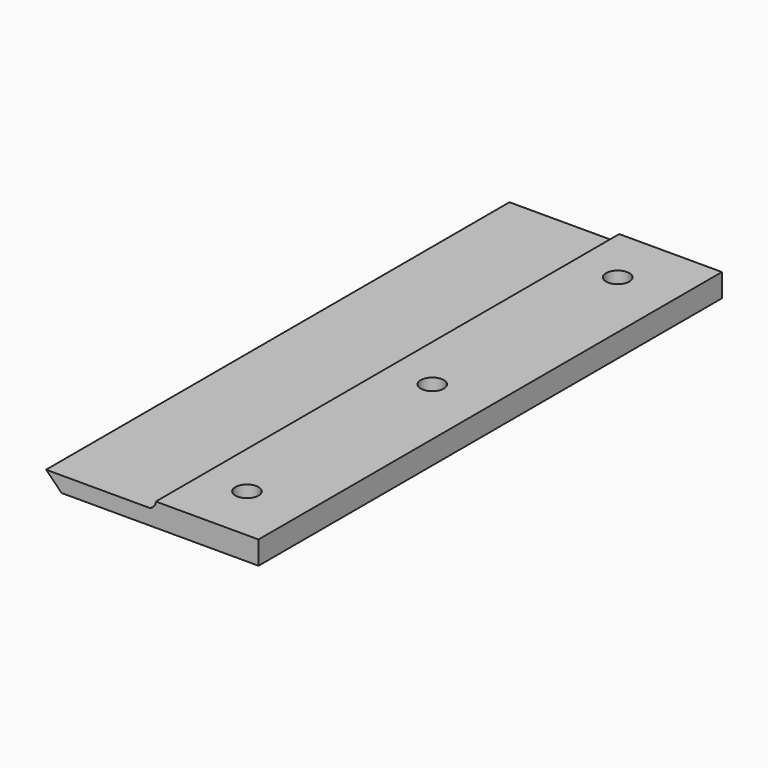
from build123d import *

# Parameters (mm, degrees)
F1_DEPTH = 150
F3_R     = 3
F4_DEPTH = 25


with BuildPart() as f1:
    # F0 (on Front) → F1 (new body)
    with BuildSketch(Plane.XZ):
        with BuildLine():
            Line((0, -6), (0, 0))
            Line((0, 0), (-26.600782156, 0))
            ThreePointArc((-26.600782156, 0), (-27.0968220332, -1.3183717037), (-28.338886105, -1.9827784693))
            Line((-28.338886105, -1.9827784693), (-55.0189449519, -1.9827784693))
            Line((-55.0189449519, -1.9827784693), (-51.0017234212, -6))
            Line((-51.0017234212, -6), (0, -6))
        make_face()
    extrude(amount=F1_DEPTH)

    # F3 (on offset) → F4 (cut)
    with BuildSketch(Plane.XY):
        with Locations((-15, -15)):
            Circle(F3_R)
        with Locations((-15, -135)):
            Circle(F3_R)
        with Locations((-15, -75)):
            Circle(F3_R)
    extrude(amount=-F4_DEPTH, mode=Mode.SUBTRACT)


solid = f1.part
